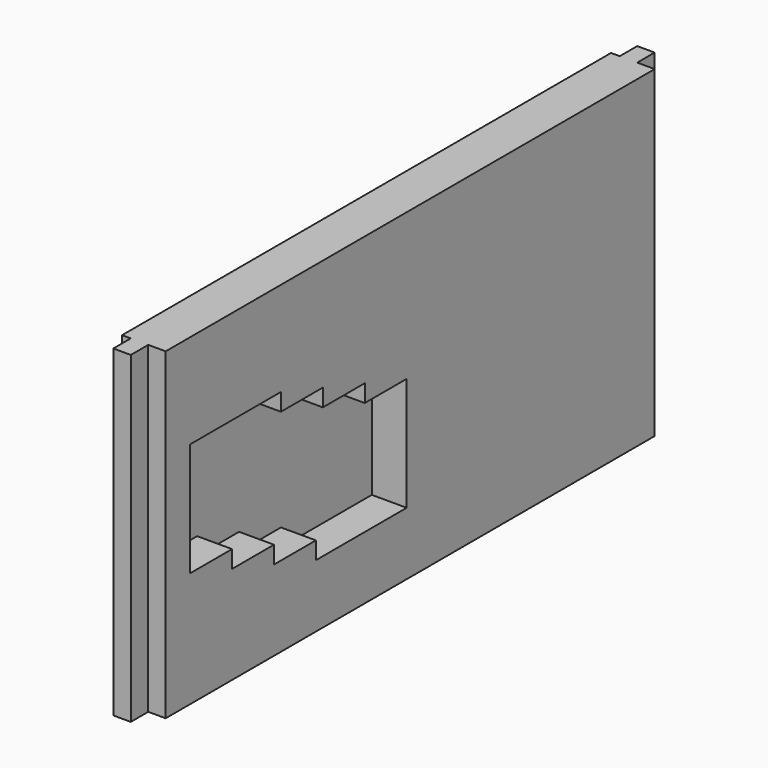
from build123d import *

# Parameters (mm, degrees)
F0_W     = 95.25
F0_H     = 46.99
F1_DEPTH = 2.54
F2_W     = 88.9
F2_H     = 46.99
F3_DEPTH = 1.27
F4_W     = 88.9
F4_H     = 46.99
F5_DEPTH = 2.54


with BuildPart() as f1:
    # F0 (on Right) → F1 (new body)
    with BuildSketch(Plane.YZ):
        Rectangle(F0_W, F0_H)
        Polygon((-0.635, 2.159), (-0.635, -14.351), (-17.145, -14.351), (-17.145, -11.811), (-24.765, -11.811), (-24.765, -9.271), (-32.385, -9.271), (-32.385, -6.731), (-40.005, -6.731), (-40.005, 9.779), (-23.495, 9.779), (-23.495, 7.239), (-15.875, 7.239), (-15.875, 4.699), (-8.255, 4.699), (-8.255, 2.159), align=None, mode=Mode.SUBTRACT)
    extrude(amount=F1_DEPTH)

    # F2 (on face) → F3 (join)
    with BuildSketch(Plane(origin=(0, 0, 0), x_dir=(0, -1, 0), z_dir=(-1, 0, 0))):
        Rectangle(F2_W, F2_H)
        Polygon((0.635, 2.159), (8.255, 2.159), (8.255, 4.699), (15.875, 4.699), (15.875, 7.239), (23.495, 7.239), (23.495, 9.779), (40.005, 9.779), (40.005, -6.731), (32.385, -6.731), (32.385, -9.271), (24.765, -9.271), (24.765, -11.811), (17.145, -11.811), (17.145, -14.351), (0.635, -14.351), align=None, mode=Mode.SUBTRACT)
        Polygon((8.255, 4.699), (8.255, 2.159), (0.635, 2.159), (0.635, -14.351), (17.145, -14.351), (17.145, -11.811), (24.765, -11.811), (24.765, -9.271), (32.385, -9.271), (32.385, -6.731), (40.005, -6.731), (40.005, 9.779), (23.495, 9.779), (23.495, 7.239), (15.875, 7.239), (15.875, 4.699), align=None)
    extrude(amount=F3_DEPTH)

    # F4 (on face) → F5 (join)
    with BuildSketch(Plane.YZ.offset(2.54)):
        Rectangle(F4_W, F4_H)
        Polygon((-15.875, 4.699), (-8.255, 4.699), (-8.255, 2.159), (-0.635, 2.159), (-0.635, -14.351), (-17.145, -14.351), (-17.145, -11.811), (-24.765, -11.811), (-24.765, -9.271), (-32.385, -9.271), (-32.385, -6.731), (-40.005, -6.731), (-40.005, 9.779), (-23.495, 9.779), (-23.495, 7.239), (-15.875, 7.239), align=None, mode=Mode.SUBTRACT)
    extrude(amount=F5_DEPTH)


solid = f1.part
